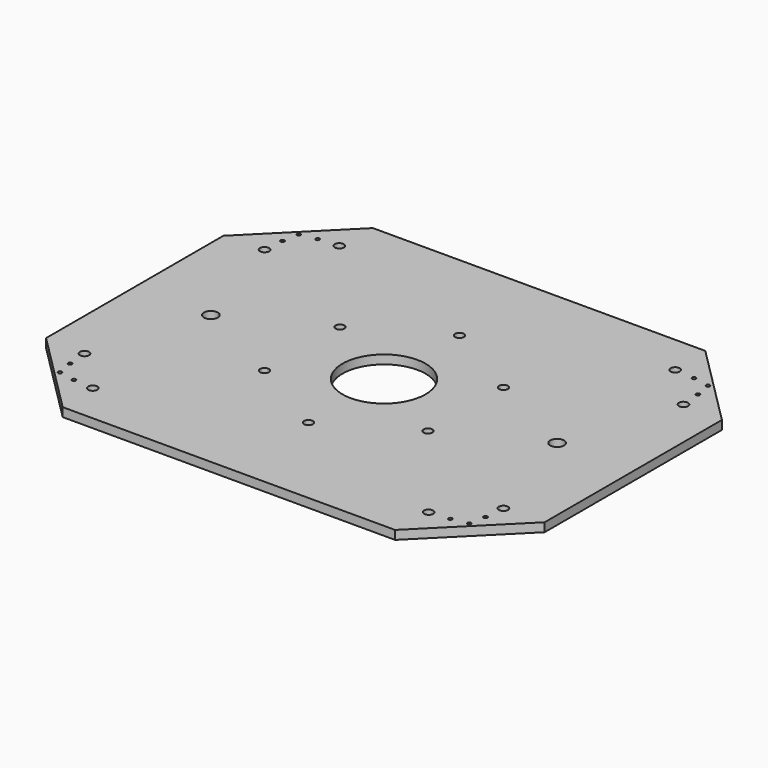
from build123d import *

# Parameters (mm, degrees)
F0_R     = 30
F1_DEPTH = 6.35
F3_D     = 10
F5_D     = 6.6
F6_D     = 2.7051
F7_D     = 2.7051
F9_D     = 6.35
F10_D    = 2.7051


with BuildPart() as f1:
    # F0 (on Top) → F1 (new body)
    with BuildSketch(Plane.XY):
        Polygon((-180, 60), (-120, 0), (120, 0), (180, 60), (180, 220), (120, 280), (-120, 280), (-180, 220), align=None)
        with Locations((0, 140)):
            Circle(F0_R, mode=Mode.SUBTRACT)
    extrude(amount=F1_DEPTH)

    # F3 (through all)
    with Locations(Plane.XY.offset(6.35)):
        with Locations((-125, 140), (125, 140)):
            Hole(F3_D / 2)

    # F5 (through all)
    with Locations(Plane.XY.offset(6.35)):
        with Locations((-121.2489651369, 251.2489651369), (-151.2489651369, 221.2489651369), (-151.2489651369, 58.7510348631), (-121.2489651369, 28.7510348631), (121.2489651369, 28.7510348631), (151.2489651369, 58.7510348631), (151.2489651369, 221.2489651369), (121.2489651369, 251.2489651369)):
            Hole(F5_D / 2)

    # F6 (through all)
    with Locations(Plane.XY.offset(6.35)):
        with Locations((-150, 235.8578643763), (-135.8578643763, 250)):
            Hole(F6_D / 2)

    # F7 (through all)
    with Locations(Plane.XY.offset(6.35)):
        with Locations((-150, 44.1421356237), (-135.8578643763, 30), (135.8578643763, 250), (150, 235.8578643763), (135.8578643763, 30), (150, 44.1421356237)):
            Hole(F7_D / 2)

    # F9 (through all)
    with Locations(Plane.XY.offset(6.35)):
        with Locations((0, 208.14583), (59.016019942, 174.072915), (-59.016019942, 174.072915), (-59.016019942, 105.927085), (0, 71.85417), (59.016019942, 105.927085)):
            Hole(F9_D / 2)

    # F10 (through all)
    with Locations(Plane.XY.offset(6.35)):
        with Locations((147.7549359697, 247.7549359697), (147.7549359697, 32.2450640303), (-147.7549359697, 32.2450640303), (-147.7549359697, 247.7549359697)):
            Hole(F10_D / 2)


solid = f1.part
